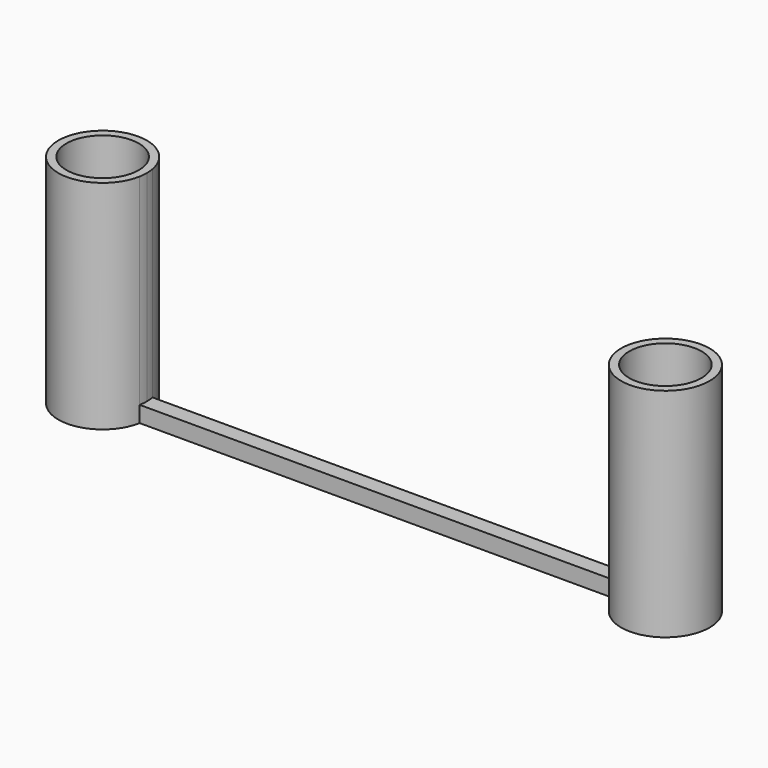
from build123d import *

# Parameters (mm, degrees)
F0_R     = 4.5
F1_DEPTH = 27
F2_DEPTH = 2


with BuildPart() as f1:
    # F0 (on Top) → F1 (new body)
    with BuildSketch(Plane.XY):
        with BuildLine():
            ThreePointArc((-29.591673, -1), (-29.522966, -0.502097), (-29.5, 0))
            ThreePointArc((-29.5, 0), (-29.522966, 0.502097), (-29.591673, 1))
            ThreePointArc((-29.591673, 1), (-40.5, 0), (-29.591673, -1))
        make_face()
        with Locations((-35, 0)):
            Circle(F0_R, mode=Mode.SUBTRACT)
    extrude(amount=F1_DEPTH)

    # F0 (on Top) → F2 (join)
    with BuildSketch(Plane.XY):
        with BuildLine():
            ThreePointArc((-29.591673, 1), (-29.522966, 0.502097), (-29.5, 0))
            ThreePointArc((-29.5, 0), (-29.522966, -0.502097), (-29.591673, -1))
            Line((-29.591673, -1), (0, -1))
            Line((0, -1), (0, 1))
            Line((0, 1), (-29.591673, 1))
        make_face()
    extrude(amount=F2_DEPTH)

    # F3: F1 across plane


with BuildPart() as f1_1:
    add(f1.part)
    add(f1.part.mirror(Plane.YZ))


solid = f1_1.part
